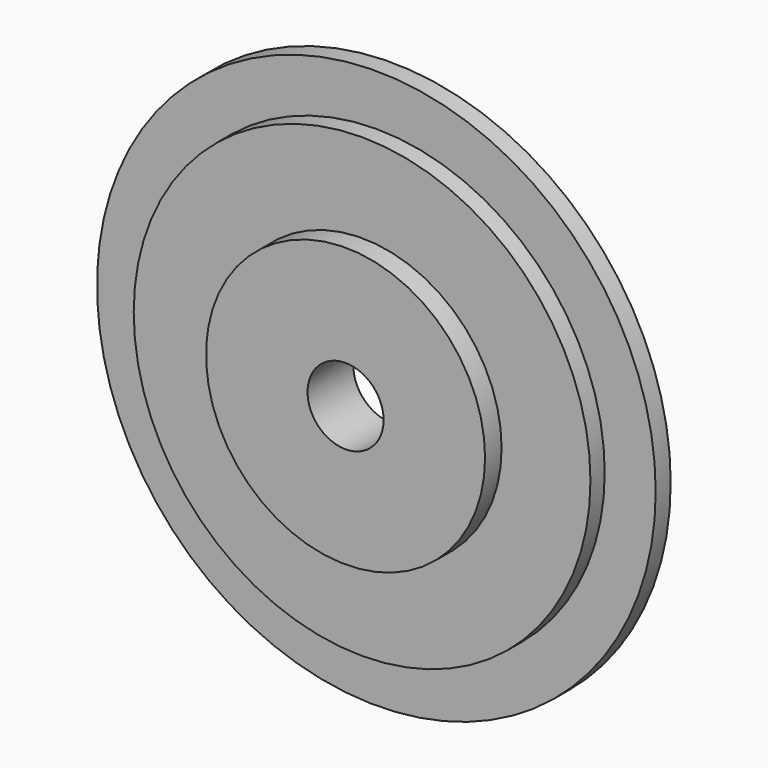
from build123d import *

# Parameters (mm, degrees)
F0_R     = 75.5827918499
F0_R_2   = 61.792299123
F1_DEPTH = 5.08
F0_R_3   = 37.749771155
F2_DEPTH = 9.906
F0_R_4   = 10.2931337437
F3_DEPTH = 15.494
F4_DEPTH = 9.906
F5_DEPTH = 9.144
F5_TAPER = 3


with BuildPart() as f1:
    # F0 (on Front) → F1 (new body)
    with BuildSketch(Plane.XZ):
        Circle(F0_R)
        Circle(F0_R_2, mode=Mode.SUBTRACT)
    extrude(amount=F1_DEPTH)

    # F0 (on Front) → F2 (join)
    with BuildSketch(Plane.XZ):
        Circle(F0_R_2)
        Circle(F0_R_3, mode=Mode.SUBTRACT)
    extrude(amount=F2_DEPTH)

    # F0 (on Front) → F3 (join)
    with BuildSketch(Plane.XZ):
        Circle(F0_R_3)
        Circle(F0_R_4, mode=Mode.SUBTRACT)
    extrude(amount=F3_DEPTH)

    # F0 (on Front) → F4 (join)
    with BuildSketch(Plane.XZ):
        Circle(F0_R_3)
        Circle(F0_R_4, mode=Mode.SUBTRACT)
    extrude(amount=F4_DEPTH)

    # F0 (on Front) → F5 (cut)
    with BuildSketch(Plane.XZ):
        Circle(F0_R_3)
        Circle(F0_R_4, mode=Mode.SUBTRACT)
    extrude(amount=F5_DEPTH, taper=F5_TAPER, mode=Mode.SUBTRACT)


solid = f1.part
